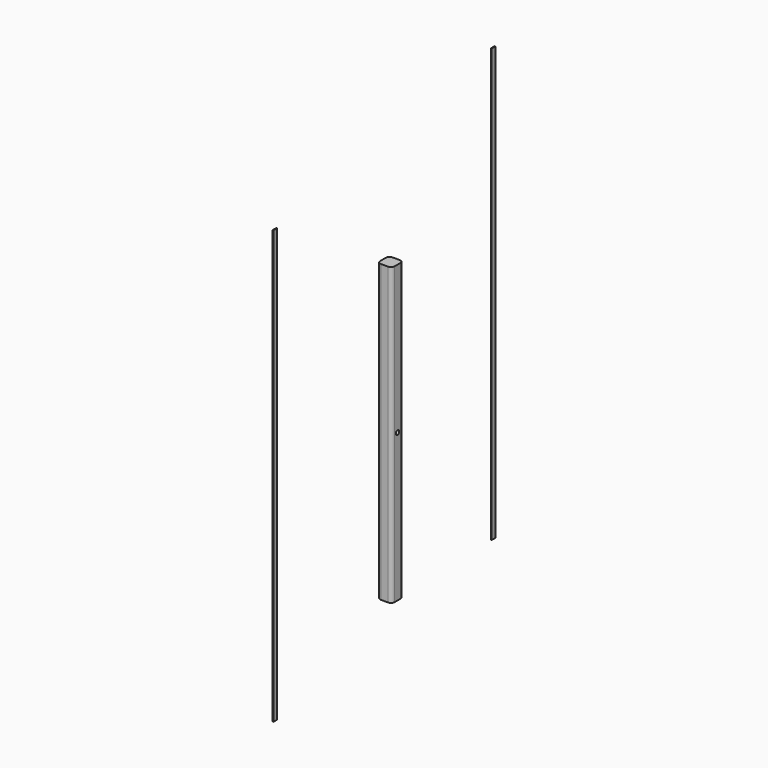
from build123d import *

# Parameters (mm, degrees)
F1_DEPTH = 520.7
F2_W     = 8.46582
F2_H     = 762
F3_DEPTH = 1.27
F4_W     = 8.46582
F4_H     = 762
F5_DEPTH = 1.27
F7_DEPTH = 25.4


with BuildPart() as f1:
    # F0 (on Top) → F1 (new body)
    with BuildSketch(Plane.XY):
        with BuildLine():
            ThreePointArc((12.7, 6.35), (10.840128, 10.840128), (6.35, 12.7))
            Line((6.35, 12.7), (-6.35, 12.7))
            ThreePointArc((-6.35, 12.7), (-10.840128, 10.840128), (-12.7, 6.35))
            Line((-12.7, 6.35), (-12.7, -6.35))
            ThreePointArc((-12.7, -6.35), (-10.840128, -10.840128), (-6.35, -12.7))
            Line((-6.35, -12.7), (6.35, -12.7))
            ThreePointArc((6.35, -12.7), (10.840128, -10.840128), (12.7, -6.35))
            Line((12.7, -6.35), (12.7, 6.35))
        make_face()
    extrude(amount=F1_DEPTH)

    # F6 (on face) → F7 (cut)
    with BuildSketch(Plane.YZ.offset(12.7)):
        with BuildLine():
            ThreePointArc((3.81, 260.35), (2.694077, 263.044077), (0, 264.16))
            ThreePointArc((0, 264.16), (-2.694077, 257.655923), (3.81, 260.35))
        make_face()
    extrude(amount=-F7_DEPTH, mode=Mode.SUBTRACT)


with BuildPart() as f3:
    # F2 (on Right) → F3 (new body)
    with BuildSketch(Plane.YZ):
        with Locations((-254.764381, 294.385428)):
            Rectangle(F2_W, F2_H)
    extrude(amount=F3_DEPTH)


with BuildPart() as f5:
    # F4 (on Right) → F5 (new body)
    with BuildSketch(Plane.YZ):
        with Locations((225.521233, 381)):
            Rectangle(F4_W, F4_H)
    extrude(amount=F5_DEPTH)


solid = Compound([f1.part, f3.part, f5.part])
